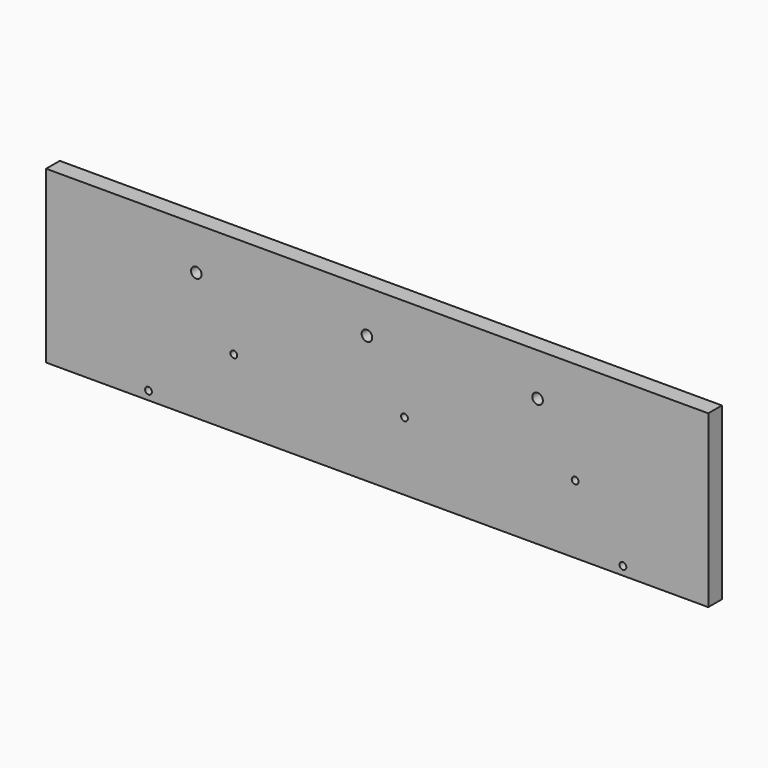
from build123d import *

# Parameters (mm, degrees)
F0_W     = 388
F0_H     = 100
F0_R     = 2
F1_DEPTH = 10
F2_R     = 3.1
F3_DEPTH = 25
F4_R     = 2
F5_DEPTH = 35


with BuildPart() as f1:
    # F0 (on Front) → F1 (new body)
    with BuildSketch(Plane.XZ):
        Rectangle(F0_W, F0_H)
        with Locations((-134, -45)):
            Circle(F0_R, mode=Mode.SUBTRACT)
        with Locations((-84, -10)):
            Circle(F0_R, mode=Mode.SUBTRACT)
        with Locations((144, -45)):
            Circle(F0_R, mode=Mode.SUBTRACT)
        with Locations((16, -10)):
            Circle(F0_R, mode=Mode.SUBTRACT)
        with Locations((116, -10)):
            Circle(F0_R, mode=Mode.SUBTRACT)
    extrude(amount=F1_DEPTH)

    # F2 (on face) → F3 (cut)
    with BuildSketch(Plane.XZ.offset(10)):
        with Locations((-6, 25)):
            Circle(F2_R)
        with Locations((94, 25)):
            Circle(F2_R)
        with Locations((-106, 25)):
            Circle(F2_R)
    extrude(amount=-F3_DEPTH, mode=Mode.SUBTRACT)

    # F4 (on face) → F5 (cut)
    with BuildSketch(Plane(origin=(-194, 0, 0), x_dir=(0, -1, 0), z_dir=(-1, 0, 0))):
        with Locations((5, -30)):
            Circle(F4_R)
        with Locations((5, 30)):
            Circle(F4_R)
    extrude(amount=-F5_DEPTH, mode=Mode.SUBTRACT)


solid = f1.part
